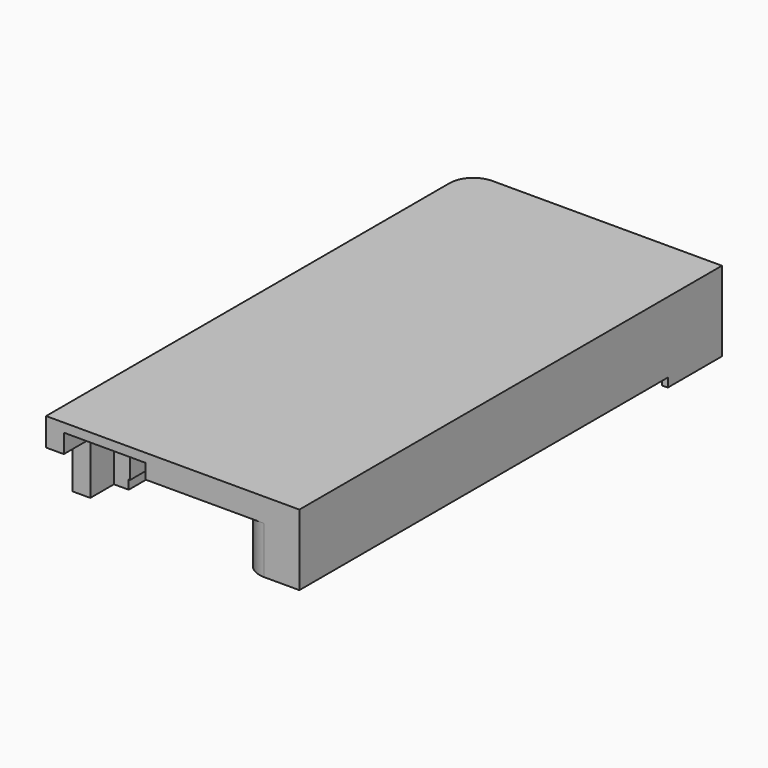
from build123d import *

# Parameters (mm, degrees)
PAD018_DEPTH    = 7.5
POCKET031_DEPTH = 5.5
SKETCH104_W     = 12
SKETCH104_H     = 4.325
POCKET070_DEPTH = 6.75
SKETCH054_W     = 50
SKETCH054_H     = 50
POCKET030_DEPTH = 1.5
SKETCH060_W     = 10
SKETCH060_H     = 8
SKETCH060_W_2   = 5.5
SKETCH060_H_2   = 5.5
SKETCH060_W_3   = 6.9
SKETCH060_H_3   = 9
SKETCH060_W_4   = 2.5
SKETCH060_H_4   = 2
POCKET034_DEPTH = 6.75
FILLET007_R     = 1
SKETCH087_W     = 2.8
SKETCH087_H     = 3.54
SKETCH087_W_2   = 2.5
POCKET058_DEPTH = 6.75
SKETCH084_W     = 1.5
SKETCH084_H     = 4.6
POCKET055_DEPTH = 5.15
SKETCH091_W     = 43.475
SKETCH091_H     = 0.75
POCKET060_DEPTH = 28.576
SKETCH093_W     = 37.75
SKETCH093_H     = 0.75
POCKET062_DEPTH = 9.526
SKETCH067_R     = 0.95
POCKET044_DEPTH = 3.25


with BuildPart() as part:
    # Sketch053 → Pad018 (new body)
    with BuildSketch(Plane.XY):
        with BuildLine():
            Line((28.575, 91.1), (28.575, 46.425))
            Line((28.575, 46.425), (7.15, 46.425))
            Line((7.15, 46.425), (7.15, 89.1))
            ThreePointArc((9.15, 91.1), (7.735786, 90.514214), (7.15, 89.1))
            Line((9.15, 91.1), (28.575, 91.1))
        make_face()
    extrude(amount=PAD018_DEPTH)

    # Sketch055 → Pocket031 (cut)
    with BuildSketch(Plane.XY):
        with BuildLine():
            Line((28.1, 51.625), (28.1, 85.875))
            Line((28.1, 85.875), (10, 85.875))
            Line((10, 85.875), (10, 46.425))
            Line((10, 46.425), (25.6, 46.425))
            ThreePointArc((23.6, 48.425), (24.185786, 47.010786), (25.6, 46.425))
            Line((23.6, 49.625), (23.6, 48.425))
            ThreePointArc((25.6, 51.625), (24.185786, 51.039214), (23.6, 49.625))
            Line((28.1, 51.625), (25.6, 51.625))
        make_face()
    extrude(amount=POCKET031_DEPTH, mode=Mode.SUBTRACT)

    # Sketch104 → Pocket070 (cut)
    with BuildSketch(Plane.XY):
        with Locations((19.05, 88.0375)):
            Rectangle(SKETCH104_W, SKETCH104_H)
    extrude(amount=POCKET070_DEPTH, mode=Mode.SUBTRACT)

    # Sketch054 → Pocket030 (cut)
    with BuildSketch(Plane.XY):
        with Locations((34.9, 60.375)):
            Rectangle(SKETCH054_W, SKETCH054_H)
    extrude(amount=POCKET030_DEPTH, mode=Mode.SUBTRACT)

    # Sketch060 → Pocket034 (cut)
    with BuildSketch(Plane.XY):
        with Locations((19.05, 82.365)):
            Rectangle(SKETCH060_W, SKETCH060_H)
        with Locations((22.32, 72.015)):
            Rectangle(SKETCH060_W_2, SKETCH060_H_2)
        with Locations((12.1, 47.225)):
            Rectangle(SKETCH060_W_3, SKETCH060_H_3)
        with Locations((26.85, 78.825)):
            Rectangle(SKETCH060_W_4, SKETCH060_H_4)
        with Locations((26.85, 76.285)):
            Rectangle(SKETCH060_W_4, SKETCH060_H_4)
        with Locations((26.85, 73.745)):
            Rectangle(SKETCH060_W_4, SKETCH060_H_4)
        with Locations((26.85, 71.205)):
            Rectangle(SKETCH060_W_4, SKETCH060_H_4)
        with Locations((26.85, 68.665)):
            Rectangle(SKETCH060_W_4, SKETCH060_H_4)
        with Locations((26.85, 66.125)):
            Rectangle(SKETCH060_W_4, SKETCH060_H_4)
        with Locations((26.85, 63.585)):
            Rectangle(SKETCH060_W_4, SKETCH060_H_4)
        with Locations((26.85, 81.365)):
            Rectangle(SKETCH060_W_4, SKETCH060_H_4)
        with Locations((26.85, 61.045)):
            Rectangle(SKETCH060_W_4, SKETCH060_H_4)
        with Locations((26.85, 58.505)):
            Rectangle(SKETCH060_W_4, SKETCH060_H_4)
        with Locations((26.85, 55.965)):
            Rectangle(SKETCH060_W_4, SKETCH060_H_4)
        with Locations((26.85, 53.425)):
            Rectangle(SKETCH060_W_4, SKETCH060_H_4)
        with Locations((11.25, 78.825)):
            Rectangle(SKETCH060_W_4, SKETCH060_H_4)
        with Locations((11.25, 76.285)):
            Rectangle(SKETCH060_W_4, SKETCH060_H_4)
        with Locations((11.25, 73.745)):
            Rectangle(SKETCH060_W_4, SKETCH060_H_4)
        with Locations((11.25, 71.205)):
            Rectangle(SKETCH060_W_4, SKETCH060_H_4)
        with Locations((11.25, 68.665)):
            Rectangle(SKETCH060_W_4, SKETCH060_H_4)
        with Locations((11.25, 66.125)):
            Rectangle(SKETCH060_W_4, SKETCH060_H_4)
        with Locations((11.25, 63.585)):
            Rectangle(SKETCH060_W_4, SKETCH060_H_4)
        with Locations((11.25, 61.045)):
            Rectangle(SKETCH060_W_4, SKETCH060_H_4)
        with Locations((11.25, 58.505)):
            Rectangle(SKETCH060_W_4, SKETCH060_H_4)
        with Locations((11.25, 55.965)):
            Rectangle(SKETCH060_W_4, SKETCH060_H_4)
        with Locations((11.25, 53.425)):
            Rectangle(SKETCH060_W_4, SKETCH060_H_4)
        with Locations((11.25, 81.365)):
            Rectangle(SKETCH060_W_4, SKETCH060_H_4)
    extrude(amount=POCKET034_DEPTH, mode=Mode.SUBTRACT)

    # Fillet007
    fillet007_edges = [part.edges().sort_by_distance(p)[0] for p in [
        (28.1, 53.425, 6.75),
        (28.1, 55.965, 6.75),
        (28.1, 58.505, 6.75),
        (28.1, 61.045, 6.75),
        (28.1, 63.585, 6.75),
        (28.1, 66.125, 6.75),
        (28.1, 68.665, 6.75),
        (28.1, 71.205, 6.75),
        (28.1, 73.745, 6.75),
        (28.1, 76.285, 6.75),
        (28.1, 78.825, 6.75),
        (28.1, 81.365, 6.75),
    ]]
    fillet(fillet007_edges, radius=FILLET007_R)

    # Sketch087 → Pocket058 (cut)
    with BuildSketch(Plane.XY):
        with Locations((11.4, 84.105)):
            Rectangle(SKETCH087_W, SKETCH087_H)
        with Locations((26.85, 84.105)):
            Rectangle(SKETCH087_W_2, SKETCH087_H)
    extrude(amount=POCKET058_DEPTH, mode=Mode.SUBTRACT)

    # Sketch084 → Pocket055 (cut)
    with BuildSketch(Plane.XY):
        with Locations((7.9, 46.925)):
            Rectangle(SKETCH084_W, SKETCH084_H)
    extrude(amount=POCKET055_DEPTH, mode=Mode.SUBTRACT)

    # Sketch091 → Pocket060 (cut, through all)
    with BuildSketch(Plane.YZ):
        with Locations((69.3625, 0.375)):
            Rectangle(SKETCH091_W, SKETCH091_H)
    extrude(amount=POCKET060_DEPTH, mode=Mode.SUBTRACT)

    # Sketch093 → Pocket062 (cut, through all)
    with BuildSketch(Plane.YZ.offset(19.05)):
        with Locations((66.5, 1.125)):
            Rectangle(SKETCH093_W, SKETCH093_H)
    extrude(amount=POCKET062_DEPTH, mode=Mode.SUBTRACT)

    # Sketch067 (on Face9 of Pocket062) → Pocket044 (cut)
    with BuildSketch(Plane.XY.offset(0.75)):
        with Locations((26.67, 88.225)):
            Circle(SKETCH067_R)
        with Locations((11.43, 88.225)):
            Circle(SKETCH067_R)
    extrude(amount=POCKET044_DEPTH, mode=Mode.SUBTRACT)


solid = part.part
